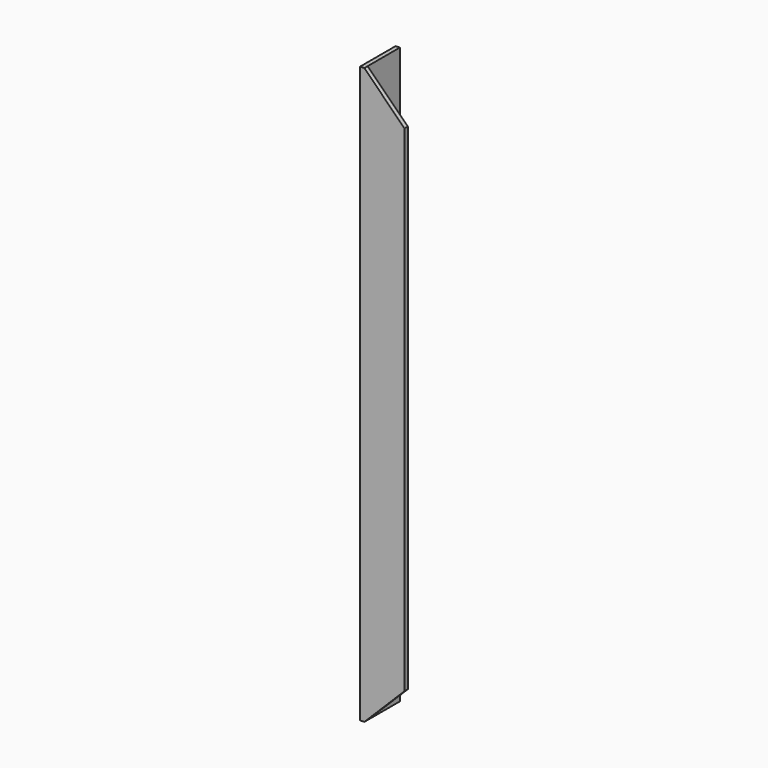
from build123d import *

# Parameters (mm, degrees)
F1_DEPTH = 330.2
F3_DEPTH = 4.7625


with BuildPart() as f1:
    # F0 (on Top) → F1 (new body, symmetric)
    with BuildSketch(Plane.XY):
        Polygon((0, 50.8), (0, 0), (50.8, 0), (50.8, 4.7625), (4.7625, 4.7625), (4.7625, 50.8), align=None)
    extrude(amount=F1_DEPTH, both=True)

    # F2 (on face) → F3 (cut, through all)
    with BuildSketch(Plane(origin=(0, 4.7625, 0), x_dir=(-1, 0, 0), z_dir=(0, 1, 0))):
        Polygon((-50.8, 284.1625), (-4.7625, 330.2), (-50.8, 330.2), align=None)
        Polygon((-50.8, -330.2), (-4.7625, -330.2), (-50.8, -284.1625), align=None)
    extrude(amount=-F3_DEPTH, mode=Mode.SUBTRACT)


solid = f1.part
